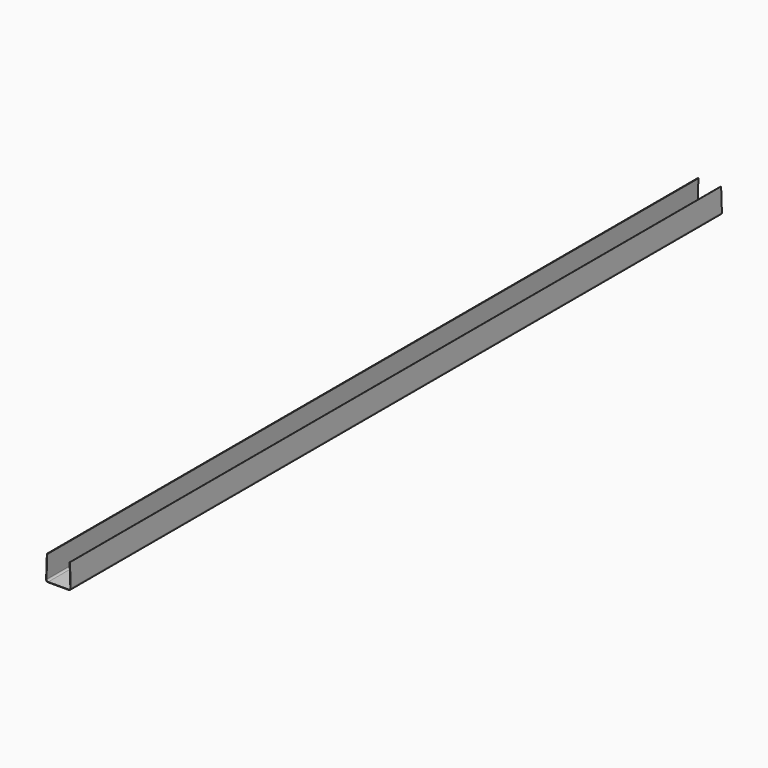
from build123d import *

# Parameters (mm, degrees)
F1_DEPTH = 2000


with BuildPart() as f1:
    # F0 (on Front) → F1 (new body)
    with BuildSketch(Plane.XZ):
        with BuildLine():
            Line((-25.322348, 0), (0, 0))
            Line((0, 0), (25.322348, 0))
            ThreePointArc((25.322348, 0), (28.919047, 1.526708), (30.319303, 5.174497))
            Line((30.319303, 5.174497), (28.371131, 60.96284))
            Line((28.371131, 60.96284), (27.385817, 60.524813))
            Line((27.385817, 60.524813), (29.319912, 5.139598))
            ThreePointArc((29.319912, 5.139598), (28.199708, 2.221367), (25.322348, 1))
            Line((25.322348, 1), (0, 1))
            Line((0, 1), (-25.322348, 1))
            ThreePointArc((-25.322348, 1), (-28.199708, 2.221367), (-29.319912, 5.139598))
            Line((-29.319912, 5.139598), (-27.385817, 60.524813))
            Line((-27.385817, 60.524813), (-28.371131, 60.96284))
            Line((-28.371131, 60.96284), (-30.319303, 5.174497))
            ThreePointArc((-30.319303, 5.174497), (-28.919047, 1.526708), (-25.322348, 0))
        make_face()
    extrude(amount=-F1_DEPTH)


solid = f1.part
